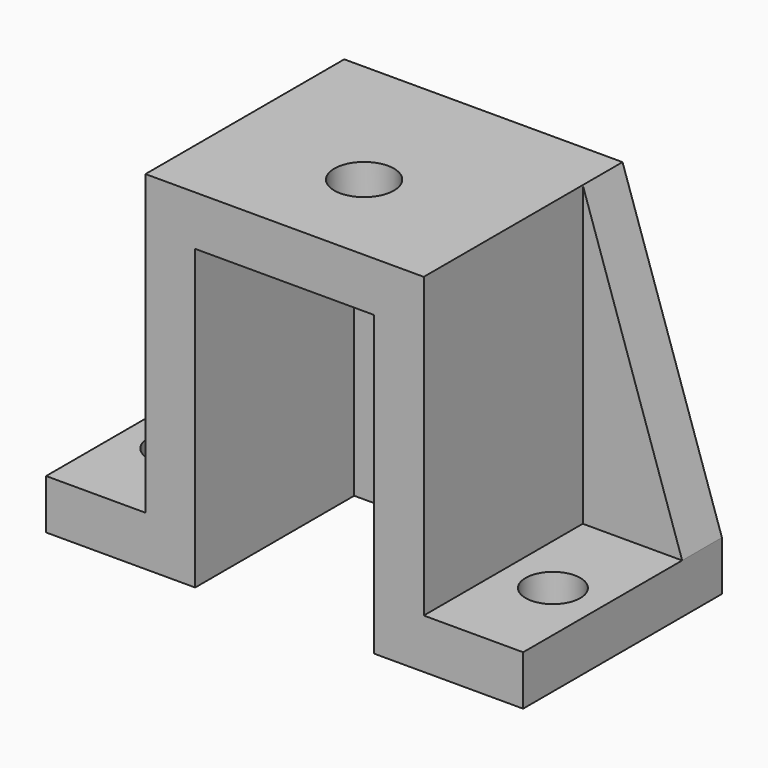
from build123d import *

# Parameters (mm, degrees)
F1_DEPTH = 50
F2_DEPTH = 10
F3_R     = 5.5
F4_DEPTH = 10
F5_R     = 6
F6_DEPTH = 12


with BuildPart() as f1:
    # F0 (on Front) → F1 (new body)
    with BuildSketch(Plane.XZ):
        Polygon((28, 48.073547), (0, 48.073547), (-28, 48.073547), (-28, -11.926453), (-48, -11.926453), (-48, -21.926453), (-18, -21.926453), (-18, 38.073547), (0, 38.073547), (18, 38.073547), (18, -21.926453), (48, -21.926453), (48, -11.926453), (28, -11.926453), align=None)
    extrude(amount=F1_DEPTH)

    # F0 (on Front) → F2 (join)
    with BuildSketch(Plane.XZ):
        Polygon((28, 48.073547), (0, 48.073547), (-28, 48.073547), (-28, -11.926453), (-48, -11.926453), (-48, -21.926453), (-18, -21.926453), (-18, 38.073547), (0, 38.073547), (18, 38.073547), (18, -21.926453), (48, -21.926453), (48, -11.926453), (28, -11.926453), align=None)
        Polygon((-28, -11.926453), (-28, 48.073547), (-48, -11.926453), align=None)
        Polygon((48, -11.926453), (28, 48.073547), (28, -11.926453), align=None)
        Polygon((-18, 38.073547), (-18, -21.926453), (0, -21.926453), (18, -21.926453), (18, 38.073547), (0, 38.073547), align=None)
    extrude(amount=F2_DEPTH)

    # F3 (on face) → F4 (cut)
    with BuildSketch(Plane.XY.offset(-11.926453)):
        with Locations((-38, -30)):
            Circle(F3_R)
        with Locations((38, -30)):
            Circle(F3_R)
    extrude(amount=-F4_DEPTH, mode=Mode.SUBTRACT)

    # F5 (on face) → F6 (cut)
    with BuildSketch(Plane.XY.offset(48.073547)):
        with Locations((0, -30)):
            Circle(F5_R)
    extrude(amount=-F6_DEPTH, mode=Mode.SUBTRACT)


solid = f1.part
